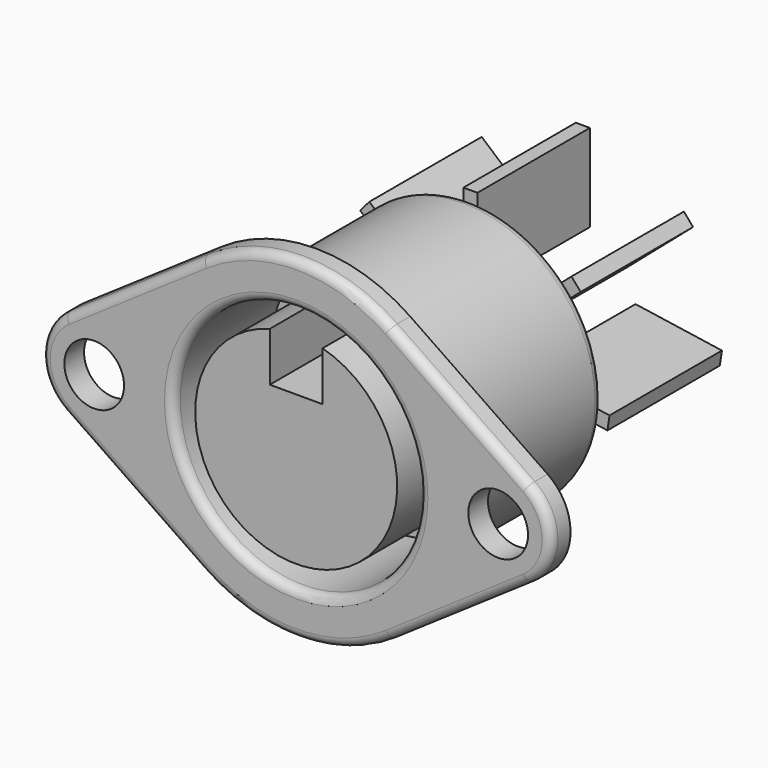
from build123d import *

# Parameters (mm, degrees)
SKETCH_R     = 1.7
PAD_DEPTH    = 1.4
SKETCH001_R  = 7.5
PAD001_DEPTH = 11
SKETCH002_R  = 7
POCKET_DEPTH = 7
FILLET_R     = 0.5
SKETCH004_W  = 0.8
SKETCH004_H  = 4.972782
PAD002_DEPTH = 8


with BuildPart() as part:
    # Sketch → Pad (new body)
    with BuildSketch(Plane.XZ):
        with BuildLine():
            Line((5.369565, 7.836949), (13.195652, 2.474826))
            ThreePointArc((13.195652, -2.474826), (14.5, 0), (13.195652, 2.474826))
            Line((13.195652, -2.474826), (5.369565, -7.836949))
            ThreePointArc((-5.369565, -7.836949), (0, -9.5), (5.369565, -7.836949))
            Line((-5.369565, -7.836949), (-13.195652, -2.474826))
            ThreePointArc((-13.195652, 2.474826), (-14.5, 0), (-13.195652, -2.474826))
            Line((-13.195652, 2.474826), (-5.369565, 7.836949))
            ThreePointArc((5.369565, 7.836949), (0, 9.5), (-5.369565, 7.836949))
        make_face()
        with Locations((11.5, 0)):
            Circle(SKETCH_R, mode=Mode.SUBTRACT)
        with Locations((-11.5, 0)):
            Circle(SKETCH_R, mode=Mode.SUBTRACT)
    extrude(amount=PAD_DEPTH)

    # Sketch001 → Pad001 (join)
    with BuildSketch(Plane.XZ):
        Circle(SKETCH001_R)
    extrude(amount=-PAD001_DEPTH)

    # Sketch002 (on Face5 of Pad001) → Pocket (cut)
    with BuildSketch(Plane.XZ.offset(1.4)):
        Circle(SKETCH002_R)
        with BuildLine():
            ThreePointArc((-1.5, 5.550901), (0, -5.75), (1.5, 5.550901))
            Line((1.5, 5.550901), (1.5, 2.75))
            Line((1.5, 2.75), (-1.5, 2.75))
            Line((-1.5, 2.75), (-1.5, 5.550901))
        make_face(mode=Mode.SUBTRACT)
    extrude(amount=-POCKET_DEPTH, mode=Mode.SUBTRACT)

    # Fillet
    fillet_edges = [part.edges().sort_by_distance(p)[0] for p in [
        (0, -1.4, 9.5),
        (-9.282609, -1.4, 5.155887),
        (-14.5, -1.4, 0),
        (-9.282609, -1.4, -5.155887),
        (0, -1.4, -9.5),
        (9.282609, -1.4, -5.155887),
        (14.5, -1.4, 0),
        (9.282609, -1.4, 5.155887),
        (-7.5, 11, 0),
        (-7, -1.4, 0),
    ]]
    fillet(fillet_edges, radius=FILLET_R)

    # Sketch004 (on Face25 of Fillet) → Pad002 (join)
    with BuildSketch(Plane(origin=(0, 11, 0), x_dir=(1, 0, 0), z_dir=(0, 1, 0))):
        Polygon((2.999739, 0.039573), (7.918946, 0.767563), (7.80183, 1.558944), (2.882623, 0.830954), align=None)
        Polygon((2.512335, -1.639565), (1.989694, -2.245244), (5.754578, -5.493969), (6.277219, -4.88829), align=None)
        with Locations((0, -5.459605)):
            Rectangle(SKETCH004_W, SKETCH004_H)
        Polygon((-5.754578, -5.493969), (-6.277219, -4.88829), (-2.512335, -1.639565), (-1.989694, -2.245244), align=None)
        Polygon((-2.999739, 0.039573), (-7.918946, 0.767563), (-7.80183, 1.558944), (-2.882623, 0.830954), align=None)
    extrude(amount=PAD002_DEPTH)


solid = part.part
